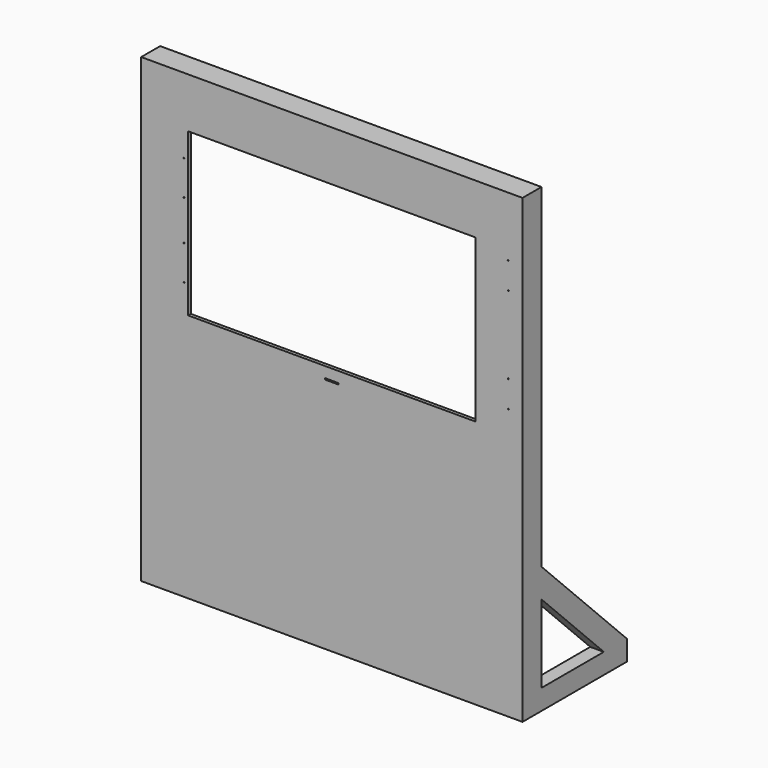
from build123d import *

# Parameters (mm, degrees)
F0_W      = 1430
F0_H      = 1730
F0_W_2    = 50
F0_H_2    = 5
F0_W_3    = 1077.78
F0_H_3    = 608
F1_DEPTH  = 12.7
F2_W      = 664.2
F2_H      = 12.7
F2_W_2    = 50.8
F2_H_2    = 50.8
F3_DEPTH  = 76.2
F4_W      = 1328.4
F4_H      = 12.7
F5_DEPTH  = 76.2
F6_W      = 1379.2
F6_H      = 120.65
F6_W_2    = 1328.4
F6_H_2    = 107.95
F7_DEPTH  = 9.525
F8_W      = 400
F8_H      = 76.2
F9_DEPTH  = 50.8
F11_DEPTH = 50.8
F12_R     = 12.7
F12_W     = 50
F12_H     = 5
F13_DEPTH = 12.7
F15_W     = 400
F15_H     = 76.2
F16_DEPTH = 50.8
F18_DEPTH = 50.8
F19_R     = 1.75
F20_DEPTH = 12.701
F14_R     = 12.7
F21_DEPTH = 50.801
F22_W     = 304.8
F22_H     = 12.7
F23_DEPTH = 177.8
F25_DEPTH = 12.7


with BuildPart() as f1:
    # F0 (on Front) → F1 (new body)
    with BuildSketch(Plane.XZ):
        with Locations((715, 865)):
            Rectangle(F0_W, F0_H)
        with Locations((715, 891.7)):
            Rectangle(F0_W_2, F0_H_2, mode=Mode.SUBTRACT)
        with Locations((715, 1238.2)):
            Rectangle(F0_W_3, F0_H_3, mode=Mode.SUBTRACT)
    extrude(amount=-F1_DEPTH)

    # F2 (on face) → F3 (join)
    with BuildSketch(Plane(origin=(0, 12.7, 0), x_dir=(-1, 0, 0), z_dir=(0, 1, 0))):
        with Locations((-1047.1, 1723.65)):
            Rectangle(F2_W, F2_H)
        with Locations((-1404.6, 1723.65)):
            Rectangle(F2_W_2, F2_H)
        Polygon((-1379.2, 50.8), (-1379.2, 1717.3), (-1430, 1717.3), (-1430, 737.95), (-1430, 718.9), (-1430, 50.8), align=None)
        with Locations((-382.9, 1723.65)):
            Rectangle(F2_W, F2_H)
        with Locations((-1047.1, 25.4)):
            Rectangle(F2_W, F2_H_2)
        with Locations((-1404.6, 25.4)):
            Rectangle(F2_W_2, F2_H_2)
        with Locations((-25.4, 1723.65)):
            Rectangle(F2_W_2, F2_H)
        with Locations((-382.9, 25.4)):
            Rectangle(F2_W, F2_H_2)
        Polygon((0, 1717.3), (-50.8, 1717.3), (-50.8, 50.8), (0, 50.8), (0, 718.9), (0, 737.95), align=None)
        with Locations((-25.4, 25.4)):
            Rectangle(F2_W_2, F2_H_2)
    extrude(amount=F3_DEPTH)

    # F4 (on face) → F5 (join)
    with BuildSketch(Plane(origin=(0, 12.7, 0), x_dir=(-1, 0, 0), z_dir=(0, 1, 0))):
        with Locations((-715, 759.2)):
            Rectangle(F4_W, F4_H)
    extrude(amount=F5_DEPTH)

    # F6 (on face) → F7 (join)
    with BuildSketch(Plane(origin=(0, 88.9, 0), x_dir=(-1, 0, 0), z_dir=(0, 1, 0))):
        with Locations((-740.4, 1669.675)):
            Rectangle(F6_W, F6_H)
        with Locations((-715, 819.525)):
            Rectangle(F6_W_2, F6_H_2)
    extrude(amount=-F7_DEPTH)

    # F8 (on face) → F9 (join)
    with BuildSketch(Plane.YZ.offset(1430)):
        with Locations((288.9, 38.1)):
            Rectangle(F8_W, F8_H)
    extrude(amount=-F9_DEPTH)

    # F10 (on face) → F11 (join)
    with BuildSketch(Plane.YZ.offset(1430)):
        Polygon((381.1369265472, 76.2), (488.9, 76.2), (88.9, 476.2), (88.9, 368.4369265472), align=None)
    extrude(amount=-F11_DEPTH)

    # F12 (on face) → F13 (cut, through all)
    with BuildSketch(Plane.XY.offset(765.55)):
        with Locations((67.7, 42.86)):
            Circle(F12_R)
        with Locations((715, 27.5)):
            Rectangle(F12_W, F12_H)
    extrude(amount=-F13_DEPTH, mode=Mode.SUBTRACT)

    # F15 (on face) → F16 (join)
    with BuildSketch(Plane(origin=(0, 0, 0), x_dir=(0, -1, 0), z_dir=(-1, 0, 0))):
        with Locations((-288.9, 38.1)):
            Rectangle(F15_W, F15_H)
    extrude(amount=-F16_DEPTH)

    # F17 (on face) → F18 (join)
    with BuildSketch(Plane(origin=(0, 0, 0), x_dir=(0, -1, 0), z_dir=(-1, 0, 0))):
        Polygon((-88.9, 476.2), (-488.9, 76.2), (-381.1369265472, 76.2), (-88.9, 368.4369265472), align=None)
    extrude(amount=-F18_DEPTH)

    # F19 (on face) → F20 (cut, through all)
    with BuildSketch(Plane(origin=(0, 12.7, 0), x_dir=(-1, 0, 0), z_dir=(0, 1, 0))):
        with Locations((-1376.7500453753, 1406.2865250229)):
            Circle(F19_R)
        with Locations((-1376.2000453753, 1506.3180125114)):
            Circle(F19_R)
        with Locations((-1376.75, 1115.5)):
            Circle(F19_R)
        with Locations((-1376.75, 1015.5)):
            Circle(F19_R)
        with Locations((-160.41, 1448.3)):
            Circle(F19_R)
        with Locations((-160.41, 1318.3)):
            Circle(F19_R)
        with Locations((-160.41, 1168.3)):
            Circle(F19_R)
        with Locations((-160.41, 1038.3)):
            Circle(F19_R)
    extrude(amount=-F20_DEPTH, mode=Mode.SUBTRACT)

    # F14 (on face) → F21 (cut, through all)
    with BuildSketch(Plane.XY.offset(50.8)):
        with Locations((67.7, 42.86)):
            Circle(F14_R)
    extrude(amount=-F21_DEPTH, mode=Mode.SUBTRACT)

    # F22 (on face) → F23 (join)
    with BuildSketch(Plane(origin=(0, 12.7, 0), x_dir=(-1, 0, 0), z_dir=(0, 1, 0))):
        with Locations((-203.2, 441.7)):
            Rectangle(F22_W, F22_H)
    extrude(amount=F23_DEPTH)

    # F24 (on face) → F25 (join)
    with BuildSketch(Plane.YZ.offset(355.6)):
        Polygon((81.0198792071, 435.35), (63.2197438789, 435.35), (12.7, 384.8302561211), (12.7, 375.85), (12.7, 366.8697438789), align=None)
    extrude(amount=-F25_DEPTH)


solid = f1.part
